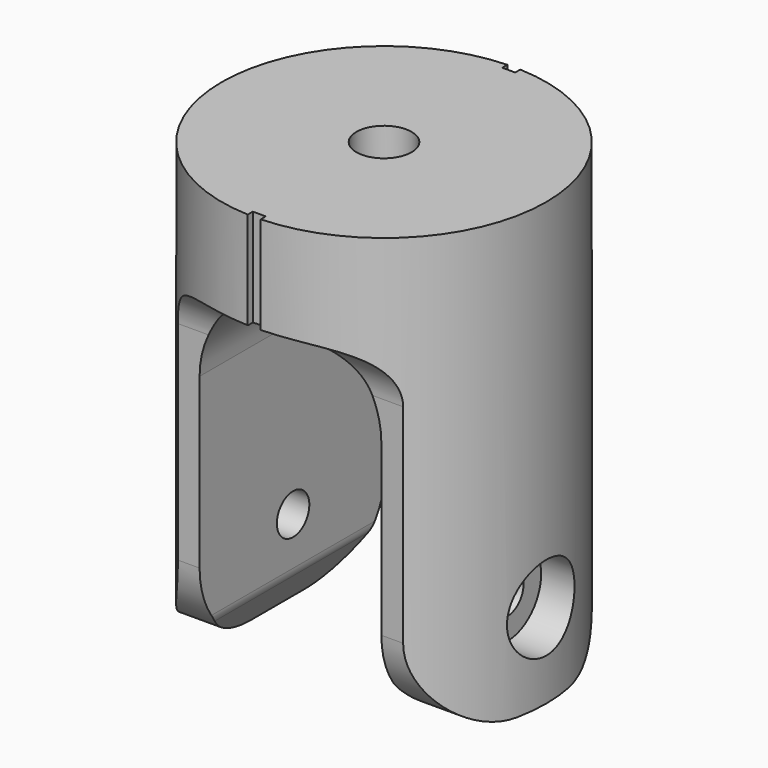
from build123d import *

# Parameters (mm, degrees)
F0_R          = 25
F1_DEPTH      = 68
F3_DEPTH      = 25.001
F3_DEPTH_BACK = 25.001
F5_DEPTH      = 25.0010001
F5_DEPTH_BACK = 25.0010001
F8_R          = 4.25
F9_DEPTH      = 25
F12_DEPTH     = 10
F13_W         = 2
F13_H         = 2
F14_DEPTH     = 25


with BuildPart() as f1:
    # F0 (on Top) → F1 (new body)
    with BuildSketch(Plane.XY):
        Circle(F0_R)
    extrude(amount=-F1_DEPTH)

    # F2 (on Right) → F3 (cut, two sides)
    with BuildSketch(Plane.YZ) as f3_sk:
        with BuildLine():
            Line((-25, -15), (-28, -15))
            Line((-28, -15), (-28, -73))
            Line((-28, -73), (0, -73))
            Line((0, -73), (28, -73))
            Line((28, -73), (28, -15))
            Line((28, -15), (25, -15))
            ThreePointArc((25, -15), (20, -17.6457513111), (18, -22.9372539332))
            Line((18, -22.9372539332), (18, -55))
            ThreePointArc((18, -55), (14.1923881554, -64.1923881554), (5, -68))
            Line((5, -68), (0, -68))
            Line((0, -68), (-5, -68))
            ThreePointArc((-5, -68), (-14.1923881554, -64.1923881554), (-18, -55))
            Line((-18, -55), (-18, -22.9372539332))
            ThreePointArc((-18, -22.9372539332), (-20, -17.6457513111), (-25, -15))
        make_face()
    extrude(amount=-F3_DEPTH, mode=Mode.SUBTRACT)
    extrude(f3_sk.sketch, amount=F3_DEPTH_BACK, mode=Mode.SUBTRACT)

    # F4 (on Front) → F5 (cut, two sides)
    with BuildSketch(Plane.XZ) as f5_sk:
        with BuildLine():
            Line((14, -62.3349160121), (14, -29))
            ThreePointArc((14, -29), (0, -15), (-14, -29))
            Line((-14, -29), (-14, -62.3349160121))
            ThreePointArc((-14, -62.3349160121), (-14.0711119786, -62.9842348539), (-14.2810766389, -63.6027707973))
            Line((-14.2810766389, -63.6027707973), (-16.3315382908, -68))
            Line((-16.3315382908, -68), (16.3315382908, -68))
            Line((16.3315382908, -68), (14.2810766389, -63.6027707973))
            ThreePointArc((14.2810766389, -63.6027707973), (14.0711119786, -62.9842348539), (14, -62.3349160121))
        make_face()
    extrude(amount=-F5_DEPTH, mode=Mode.SUBTRACT)
    extrude(f5_sk.sketch, amount=F5_DEPTH_BACK, mode=Mode.SUBTRACT)

    # F6 (on Front) → F7 (revolve, cut)
    with BuildSketch(Plane.XZ):
        Polygon((-19, -48.5), (-26, -48.5), (-26, -55), (0, -55), (26, -55), (26, -48.5), (19, -48.5), (19, -51.8758), (0, -51.8758), (-19, -51.8758), align=None)
    revolve(axis=Axis((0.0713579357, 0, -55), (1, 0, 0)), mode=Mode.SUBTRACT)

    # F8 (on face) → F9 (cut)
    with BuildSketch(Plane.XY):
        Circle(F8_R)
    extrude(amount=-F9_DEPTH, mode=Mode.SUBTRACT)

    # F11 (on offset) → F12 (cut)
    with BuildSketch(Plane.XY.offset(-10)):
        Polygon((3.6373066959, -6.3), (7.2746133918, 0), (3.6373066959, 6.3), (-3.6373066959, 6.3), (-7.2746133918, 0), (-3.6373066959, -6.3), align=None)
    extrude(amount=-F12_DEPTH, mode=Mode.SUBTRACT)

    # F13 (on face) → F14 (cut)
    with BuildSketch(Plane.XY):
        with Locations((0, 25)):
            Rectangle(F13_W, F13_H)
        with Locations((0, -25)):
            Rectangle(F13_W, F13_H)
    extrude(amount=-F14_DEPTH, mode=Mode.SUBTRACT)


solid = f1.part
